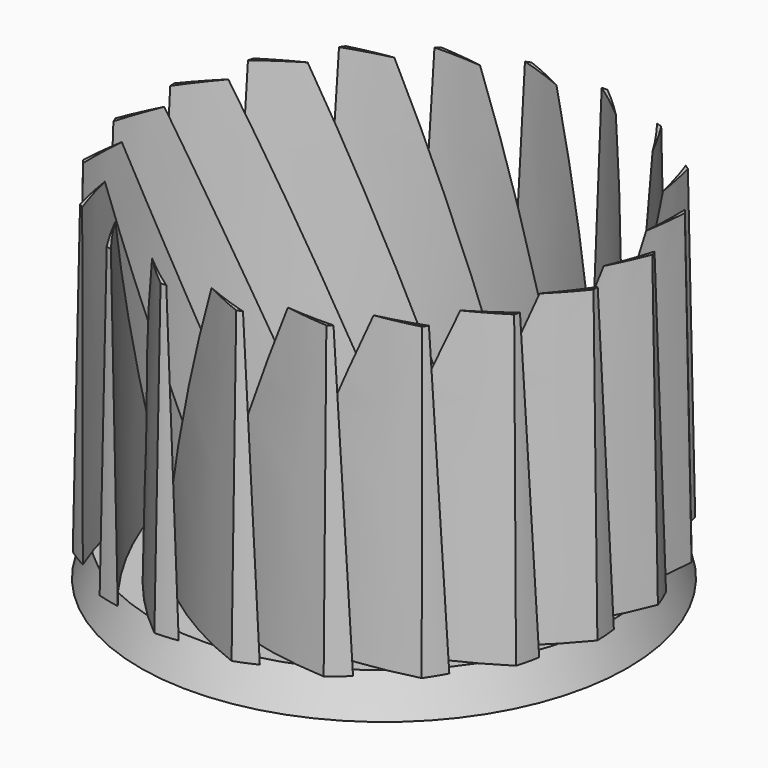
from build123d import *

# Parameters (mm, degrees)
F1_DEPTH = 50.8
F1_TAPER = 1
F2_R     = 38.1
F3_DEPTH = 6.35
F3_TAPER = -20


with BuildPart() as f1:
    # F0 (on Top) → F1 (new body)
    with BuildSketch(Plane.XY):
        with BuildLine():
            ThreePointArc((14.3644440205, 37.2285457222), (22.767703537, 24.3803333486), (28.0546803726, 9.9671724309))
            ThreePointArc((28.0546803726, 9.9671724309), (24.4669354887, 23.6889181902), (18.0672034721, 36.345997243))
            ThreePointArc((18.0672034721, 36.345997243), (16.2306613784, 36.8495232273), (14.3644440205, 37.2285457222))
        make_face()
    extrude(amount=F1_DEPTH, taper=F1_TAPER)


with BuildPart() as f1b:
    # F0 (on Top) → F1, piece 2 (new body)
    with BuildSketch(Plane.XY):
        with BuildLine():
            ThreePointArc((23.6015609139, 18.1487172963), (15.9491601312, 30.090198875), (5.9514007678, 40.150170433))
            ThreePointArc((5.9514007678, 40.150170433), (4.0491473559, 40.0615293836), (2.1571447847, 39.8453083183))
            ThreePointArc((2.1571447847, 39.8453083183), (14.1194354767, 30.2226822164), (23.6015609139, 18.1487172963))
        make_face()
    extrude(amount=F1_DEPTH, taper=F1_TAPER)


with BuildPart() as f1c:
    # F0 (on Top) → F1, piece 3 (new body)
    with BuildSketch(Plane.XY):
        with BuildLine():
            ThreePointArc((16.8381562312, 24.5537392633), (5.8701698557, 33.5460412433), (-6.7469665096, 40.0241651982))
            ThreePointArc((-6.7469665096, 40.0241651982), (-8.5287254219, 39.3520339187), (-10.2613108124, 38.5617345177))
            ThreePointArc((-10.2613108124, 38.5617345177), (4.0890586961, 33.1066243752), (16.8381562312, 24.5537392633))
        make_face()
    extrude(amount=F1_DEPTH, taper=F1_TAPER)


with BuildPart() as f1d:
    # F0 (on Top) → F1, piece 4 (new body)
    with BuildSketch(Plane.XY):
        with BuildLine():
            ThreePointArc((8.4265154983, 28.5552701551), (-4.7834335452, 33.7181633656), (-18.7848936961, 35.9803158091))
            ThreePointArc((-18.7848936961, 35.9803158091), (-20.2717471323, 34.7904871921), (-21.6753178124, 33.5034694671))
            ThreePointArc((-21.6753178124, 33.5034694671), (-6.3415836399, 32.7498594726), (8.4265154983, 28.5552701551))
        make_face()
    extrude(amount=F1_DEPTH, taper=F1_TAPER)


with BuildPart() as f1e:
    # F0 (on Top) → F1, piece 5 (new body)
    with BuildSketch(Plane.XY):
        with BuildLine():
            ThreePointArc((-0.8099712826, 29.7616122479), (-14.9688011425, 30.5897167294), (-28.9840246055, 28.414462419))
            ThreePointArc((-28.9840246055, 28.414462419), (-30.0304289918, 26.8234051796), (-30.9675936842, 25.1656513927))
            ThreePointArc((-30.9675936842, 25.1656513927), (-16.1514675848, 29.1873101432), (-0.8099712826, 29.7616122479))
        make_face()
    extrude(amount=F1_DEPTH, taper=F1_TAPER)


with BuildPart() as f1f:
    # F0 (on Top) → F1, piece 6 (new body)
    with BuildSketch(Plane.XY):
        with BuildLine():
            ThreePointArc((-9.9671724309, 28.0546803726), (-23.6889181902, 24.4669354887), (-36.345997243, 18.0672034721))
            ThreePointArc((-36.345997243, 18.0672034721), (-36.8495232273, 16.2306613784), (-37.2285457222, 14.3644440205))
            ThreePointArc((-37.2285457222, 14.3644440205), (-24.3803333486, 22.767703537), (-9.9671724309, 28.0546803726))
        make_face()
    extrude(amount=F1_DEPTH, taper=F1_TAPER)


with BuildPart() as f1g:
    # F0 (on Top) → F1, piece 7 (new body)
    with BuildSketch(Plane.XY):
        with BuildLine():
            ThreePointArc((-18.1487172963, 23.6015609139), (-30.090198875, 15.9491601312), (-40.150170433, 5.9514007678))
            ThreePointArc((-40.150170433, 5.9514007678), (-40.0615293836, 4.0491473559), (-39.8453083183, 2.1571447847))
            ThreePointArc((-39.8453083183, 2.1571447847), (-30.2226822164, 14.1194354767), (-18.1487172963, 23.6015609139))
        make_face()
    extrude(amount=F1_DEPTH, taper=F1_TAPER)


with BuildPart() as f1h:
    # F0 (on Top) → F1, piece 8 (new body)
    with BuildSketch(Plane.XY):
        with BuildLine():
            ThreePointArc((-24.5537392633, 16.8381562312), (-33.5460412433, 5.8701698557), (-40.0241651982, -6.7469665096))
            ThreePointArc((-40.0241651982, -6.7469665096), (-39.3520339187, -8.5287254219), (-38.5617345177, -10.2613108124))
            ThreePointArc((-38.5617345177, -10.2613108124), (-33.1066243752, 4.0890586961), (-24.5537392633, 16.8381562312))
        make_face()
    extrude(amount=F1_DEPTH, taper=F1_TAPER)


with BuildPart() as f1i:
    # F0 (on Top) → F1, piece 9 (new body)
    with BuildSketch(Plane.XY):
        with BuildLine():
            ThreePointArc((-28.5552701551, 8.4265154983), (-33.7181633656, -4.7834335452), (-35.9803158091, -18.7848936961))
            ThreePointArc((-35.9803158091, -18.7848936961), (-34.7904871921, -20.2717471323), (-33.5034694671, -21.6753178124))
            ThreePointArc((-33.5034694671, -21.6753178124), (-32.7498594726, -6.3415836399), (-28.5552701551, 8.4265154983))
        make_face()
    extrude(amount=F1_DEPTH, taper=F1_TAPER)


with BuildPart() as f1j:
    # F0 (on Top) → F1, piece 10 (new body)
    with BuildSketch(Plane.XY):
        with BuildLine():
            ThreePointArc((-29.7616122479, -0.8099712826), (-30.5897167294, -14.9688011425), (-28.414462419, -28.9840246055))
            ThreePointArc((-28.414462419, -28.9840246055), (-26.8234051796, -30.0304289918), (-25.1656513927, -30.9675936842))
            ThreePointArc((-25.1656513927, -30.9675936842), (-29.1873101432, -16.1514675848), (-29.7616122479, -0.8099712826))
        make_face()
    extrude(amount=F1_DEPTH, taper=F1_TAPER)


with BuildPart() as f1k:
    # F0 (on Top) → F1, piece 11 (new body)
    with BuildSketch(Plane.XY):
        with BuildLine():
            ThreePointArc((-28.0546803726, -9.9671724309), (-24.4669354887, -23.6889181902), (-18.0672034721, -36.345997243))
            ThreePointArc((-18.0672034721, -36.345997243), (-16.2306613784, -36.8495232273), (-14.3644440205, -37.2285457222))
            ThreePointArc((-14.3644440205, -37.2285457222), (-22.767703537, -24.3803333486), (-28.0546803726, -9.9671724309))
        make_face()
    extrude(amount=F1_DEPTH, taper=F1_TAPER)


with BuildPart() as f1l:
    # F0 (on Top) → F1, piece 12 (new body)
    with BuildSketch(Plane.XY):
        with BuildLine():
            ThreePointArc((-23.6015609139, -18.1487172963), (-15.9491601312, -30.090198875), (-5.9514007678, -40.150170433))
            ThreePointArc((-5.9514007678, -40.150170433), (-4.0491473559, -40.0615293836), (-2.1571447847, -39.8453083183))
            ThreePointArc((-2.1571447847, -39.8453083183), (-14.1194354767, -30.2226822164), (-23.6015609139, -18.1487172963))
        make_face()
    extrude(amount=F1_DEPTH, taper=F1_TAPER)


with BuildPart() as f1m:
    # F0 (on Top) → F1, piece 13 (new body)
    with BuildSketch(Plane.XY):
        with BuildLine():
            ThreePointArc((-16.8381562312, -24.5537392633), (-5.8701698557, -33.5460412433), (6.7469665096, -40.0241651982))
            ThreePointArc((6.7469665096, -40.0241651982), (8.5287254219, -39.3520339187), (10.2613108124, -38.5617345177))
            ThreePointArc((10.2613108124, -38.5617345177), (-4.0890586961, -33.1066243752), (-16.8381562312, -24.5537392633))
        make_face()
    extrude(amount=F1_DEPTH, taper=F1_TAPER)


with BuildPart() as f1n:
    # F0 (on Top) → F1, piece 14 (new body)
    with BuildSketch(Plane.XY):
        with BuildLine():
            ThreePointArc((-8.4265154983, -28.5552701551), (4.7834335452, -33.7181633656), (18.7848936961, -35.9803158091))
            ThreePointArc((18.7848936961, -35.9803158091), (20.2717471323, -34.7904871921), (21.6753178124, -33.5034694671))
            ThreePointArc((21.6753178124, -33.5034694671), (6.3415836399, -32.7498594726), (-8.4265154983, -28.5552701551))
        make_face()
    extrude(amount=F1_DEPTH, taper=F1_TAPER)


with BuildPart() as f1o:
    # F0 (on Top) → F1, piece 15 (new body)
    with BuildSketch(Plane.XY):
        with BuildLine():
            ThreePointArc((0.8099712826, -29.7616122479), (14.9688011425, -30.5897167294), (28.9840246055, -28.414462419))
            ThreePointArc((28.9840246055, -28.414462419), (30.0304289918, -26.8234051796), (30.9675936842, -25.1656513927))
            ThreePointArc((30.9675936842, -25.1656513927), (16.1514675848, -29.1873101432), (0.8099712826, -29.7616122479))
        make_face()
    extrude(amount=F1_DEPTH, taper=F1_TAPER)


with BuildPart() as f1p:
    # F0 (on Top) → F1, piece 16 (new body)
    with BuildSketch(Plane.XY):
        with BuildLine():
            ThreePointArc((9.9671724309, -28.0546803726), (23.6889181902, -24.4669354887), (36.345997243, -18.0672034721))
            ThreePointArc((36.345997243, -18.0672034721), (36.8495232273, -16.2306613784), (37.2285457222, -14.3644440205))
            ThreePointArc((37.2285457222, -14.3644440205), (24.3803333486, -22.767703537), (9.9671724309, -28.0546803726))
        make_face()
    extrude(amount=F1_DEPTH, taper=F1_TAPER)


with BuildPart() as f1q:
    # F0 (on Top) → F1, piece 17 (new body)
    with BuildSketch(Plane.XY):
        with BuildLine():
            ThreePointArc((18.1487172963, -23.6015609139), (30.090198875, -15.9491601312), (40.150170433, -5.9514007678))
            ThreePointArc((40.150170433, -5.9514007678), (40.0615293836, -4.0491473559), (39.8453083183, -2.1571447847))
            ThreePointArc((39.8453083183, -2.1571447847), (30.2226822164, -14.1194354767), (18.1487172963, -23.6015609139))
        make_face()
    extrude(amount=F1_DEPTH, taper=F1_TAPER)


with BuildPart() as f1r:
    # F0 (on Top) → F1, piece 18 (new body)
    with BuildSketch(Plane.XY):
        with BuildLine():
            ThreePointArc((24.5537392633, -16.8381562312), (33.5460412433, -5.8701698557), (40.0241651982, 6.7469665096))
            ThreePointArc((40.0241651982, 6.7469665096), (39.3520339187, 8.5287254219), (38.5617345177, 10.2613108124))
            ThreePointArc((38.5617345177, 10.2613108124), (33.1066243752, -4.0890586961), (24.5537392633, -16.8381562312))
        make_face()
    extrude(amount=F1_DEPTH, taper=F1_TAPER)


with BuildPart() as f1s:
    # F0 (on Top) → F1, piece 19 (new body)
    with BuildSketch(Plane.XY):
        with BuildLine():
            ThreePointArc((28.5552701551, -8.4265154983), (33.7181633656, 4.7834335452), (35.9803158091, 18.7848936961))
            ThreePointArc((35.9803158091, 18.7848936961), (34.7904871921, 20.2717471323), (33.5034694671, 21.6753178124))
            ThreePointArc((33.5034694671, 21.6753178124), (32.7498594726, 6.3415836399), (28.5552701551, -8.4265154983))
        make_face()
    extrude(amount=F1_DEPTH, taper=F1_TAPER)


with BuildPart() as f1t:
    # F0 (on Top) → F1, piece 20 (new body)
    with BuildSketch(Plane.XY):
        with BuildLine():
            ThreePointArc((29.7616122479, 0.8099712826), (30.5897167294, 14.9688011425), (28.414462419, 28.9840246055))
            ThreePointArc((28.414462419, 28.9840246055), (26.8234051796, 30.0304289918), (25.1656513927, 30.9675936842))
            ThreePointArc((25.1656513927, 30.9675936842), (29.1873101432, 16.1514675848), (29.7616122479, 0.8099712826))
        make_face()
    extrude(amount=F1_DEPTH, taper=F1_TAPER)


with BuildPart() as f3:
    # F2 (on Top) → F3 (new body)
    with BuildSketch(Plane.XY):
        Circle(F2_R)
    extrude(amount=-F3_DEPTH, taper=F3_TAPER)


solid = Compound([f1.part, f1b.part, f1c.part, f1d.part, f1e.part, f1f.part, f1g.part, f1h.part, f1i.part, f1j.part, f1k.part, f1l.part, f1m.part, f1n.part, f1o.part, f1p.part, f1q.part, f1r.part, f1s.part, f1t.part, f3.part])
